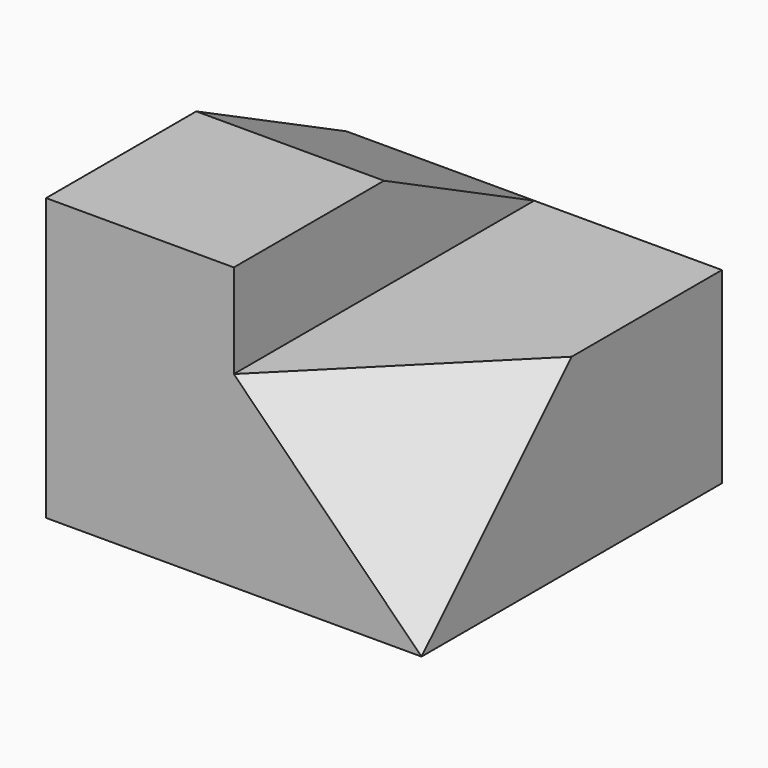
from build123d import *

# Parameters (mm, degrees)
F1_DEPTH = 127
F3_DEPTH = 127
F8_DEPTH = 287.274


with BuildPart() as f1:
    # F0 (on Front) → F1 (new body, symmetric)
    with BuildSketch(Plane.XZ):
        Polygon((0, 190.5), (0, 0), (254, 0), (254, 127), (127, 127), (127, 190.5), align=None)
    extrude(amount=F1_DEPTH, both=True)

    # F2 (on face) → F3 (cut)
    with BuildSketch(Plane.YZ.offset(127)):
        Polygon((127, 190.5), (0, 190.5), (127, 127), align=None)
    extrude(amount=-F3_DEPTH, mode=Mode.SUBTRACT)

    # F7 (on 3pt) → F8 (cut)
    with BuildSketch(Plane(origin=(127, -127, 127), x_dir=(-0.4082482905, -0.8164965809, -0.4082482905), z_dir=(-0.5773502692, 0.5773502692, -0.5773502692))):
        Polygon((-155.5425986667, -89.8025612107), (0, -179.6051224214), (0, 0), align=None)
    extrude(amount=-F8_DEPTH, mode=Mode.SUBTRACT)


solid = f1.part
